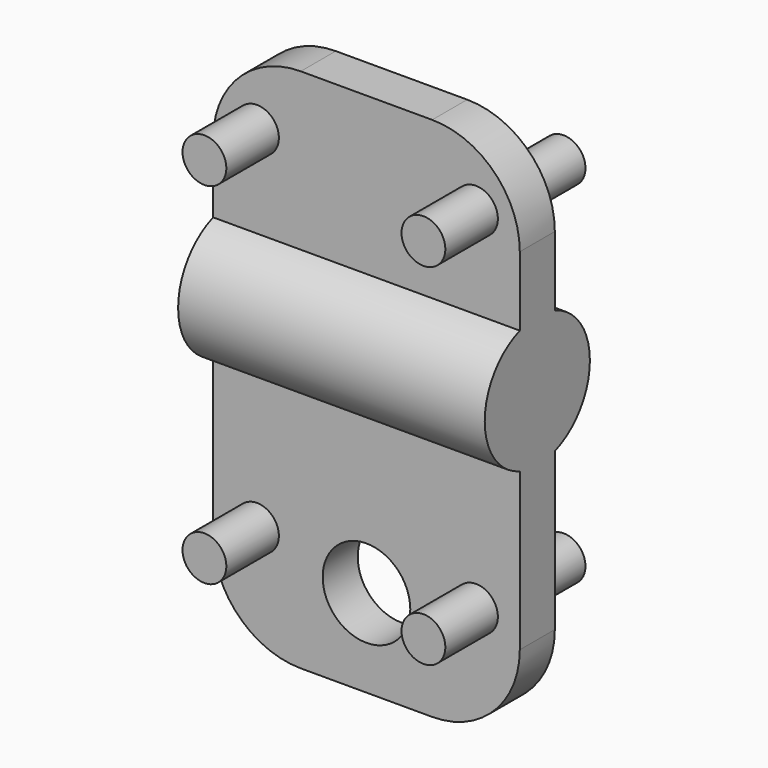
from build123d import *

# Parameters (mm, degrees)
F0_W     = 25.4
F0_H     = 50.8
F1_DEPTH = 177.8
F2_R     = 12.7
F3_DEPTH = 38.1
F5_R     = 50.8
F7_D     = 50.8
F8_R     = 50.8


with BuildPart() as f1:
    # F0 (on Right) → F1 (new body)
    with BuildSketch(Plane.YZ):
        with BuildLine():
            ThreePointArc((12.7, -35.9210244843), (31.1085197333, -21.9970452561), (38.1, 0))
            ThreePointArc((38.1, 0), (31.1085197333, 21.9970452561), (12.7, 35.9210244843))
            Line((12.7, 35.9210244843), (12.7, -35.9210244843))
        make_face()
        with BuildLine():
            Line((12.7, -35.9210244843), (12.7, 35.9210244843))
            ThreePointArc((12.7, 35.9210244843), (0, 38.1), (-12.7, 35.9210244843))
            Line((-12.7, 35.9210244843), (-12.7, -35.9210244843))
            ThreePointArc((-12.7, -35.9210244843), (0, -38.1), (12.7, -35.9210244843))
        make_face()
        with BuildLine():
            ThreePointArc((-12.7, 35.9210244843), (0, 38.1), (12.7, 35.9210244843))
            Line((12.7, 35.9210244843), (12.7, 127))
            Line((12.7, 127), (-12.7, 127))
            Line((-12.7, 127), (-12.7, 35.9210244843))
        make_face()
        with BuildLine():
            Line((12.7, -127), (12.7, -35.9210244843))
            ThreePointArc((12.7, -35.9210244843), (0, -38.1), (-12.7, -35.9210244843))
            Line((-12.7, -35.9210244843), (-12.7, -127))
            Line((-12.7, -127), (12.7, -127))
        make_face()
        with BuildLine():
            Line((-12.7, -35.9210244843), (-12.7, 35.9210244843))
            ThreePointArc((-12.7, 35.9210244843), (-38.1, 0), (-12.7, -35.9210244843))
        make_face()
        with Locations((0, -152.4)):
            Rectangle(F0_W, F0_H)
    extrude(amount=F1_DEPTH)

    # F2 (on face) → F3 (join)
    with BuildSketch(Plane(origin=(0, 12.7, 0), x_dir=(-1, 0, 0), z_dir=(0, 1, 0))):
        with Locations((-152.4, 88.9)):
            Circle(F2_R)
        with Locations((-25.4, 88.9)):
            Circle(F2_R)
        with Locations((-25.4, -114.3)):
            Circle(F2_R)
        with Locations((-152.4, -114.3)):
            Circle(F2_R)
    extrude(amount=F3_DEPTH)

    # F4: F1 across plane


with BuildPart() as f1_1:
    add(f1.part)
    add(f1.part.mirror(Plane.XZ))

    # F5
    f5_edges = [f1_1.edges().sort_by_distance(p)[0] for p in [
        (177.8, 0, 127),
        (0, 0, 127),
    ]]
    fillet(f5_edges, radius=F5_R)

    # F7 (through all)
    with Locations(Plane(origin=(0, 12.7, 0), x_dir=(-1, 0, 0), z_dir=(0, 1, 0))):
        with Locations((-88.9, -127)):
            Hole(F7_D / 2)

    # F8
    f8_edges = [f1_1.edges().sort_by_distance(p)[0] for p in [
        (177.8, 0, -177.8),
        (0, 0, -177.8),
    ]]
    fillet(f8_edges, radius=F8_R)


solid = f1_1.part
